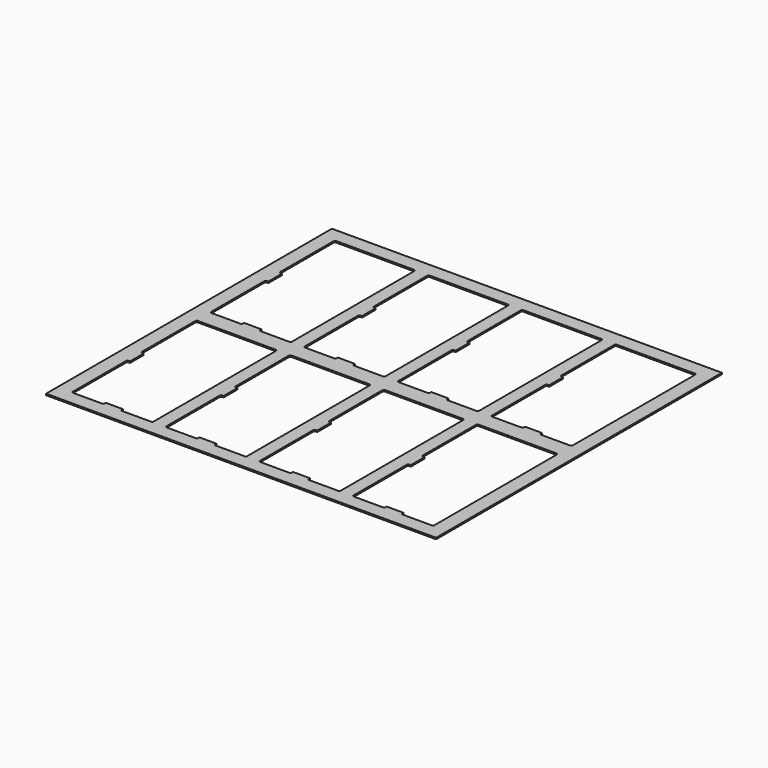
from build123d import *

# Parameters (mm, degrees)
F0_W     = 274.2
F0_H     = 251.2
F1_DEPTH = 1
F3_DEPTH = 1.001
F4_R     = 1


with BuildPart() as f1:
    # F0 (on Top) → F1 (new body)
    with BuildSketch(Plane.XY):
        Rectangle(F0_W, F0_H)
    extrude(amount=F1_DEPTH)

    # F2 (on face) → F3 (cut, through all)
    with BuildSketch(Plane.XY.offset(1)):
        Polygon((-127.1, -66.8), (-127.1, -115.6), (-104.7, -115.6), (-104.7, -113.6), (-92.7, -113.6), (-92.7, -115.6), (-70.3, -115.6), (-70.3, -6), (-127.1, -6), (-127.1, -54.8), (-125.1, -54.8), (-125.1, -66.8), align=None)
        Polygon((-4.5, -6), (-61.3, -6), (-61.3, -54.8), (-59.3, -54.8), (-59.3, -66.8), (-61.3, -66.8), (-61.3, -115.6), (-38.9, -115.6), (-38.9, -113.6), (-26.9, -113.6), (-26.9, -115.6), (-4.5, -115.6), align=None)
        Polygon((61.3, -6), (4.5, -6), (4.5, -54.8), (6.5, -54.8), (6.5, -66.8), (4.5, -66.8), (4.5, -115.6), (26.9, -115.6), (26.9, -113.6), (38.9, -113.6), (38.9, -115.6), (61.3, -115.6), align=None)
        Polygon((127.1, -6), (70.3, -6), (70.3, -54.8), (72.3, -54.8), (72.3, -66.8), (70.3, -66.8), (70.3, -115.6), (92.7, -115.6), (92.7, -113.6), (104.7, -113.6), (104.7, -115.6), (127.1, -115.6), align=None)
        Polygon((127.1, 115.6), (70.3, 115.6), (70.3, 66.8), (72.3, 66.8), (72.3, 54.8), (70.3, 54.8), (70.3, 6), (92.7, 6), (92.7, 8), (104.7, 8), (104.7, 6), (127.1, 6), align=None)
        Polygon((61.3, 115.6), (4.5, 115.6), (4.5, 66.8), (6.5, 66.8), (6.5, 54.8), (4.5, 54.8), (4.5, 6), (26.9, 6), (26.9, 8), (38.9, 8), (38.9, 6), (61.3, 6), align=None)
        Polygon((-4.5, 115.6), (-61.3, 115.6), (-61.3, 66.8), (-59.3, 66.8), (-59.3, 54.8), (-61.3, 54.8), (-61.3, 6), (-38.9, 6), (-38.9, 8), (-26.9, 8), (-26.9, 6), (-4.5, 6), align=None)
        Polygon((-70.3, 115.6), (-127.1, 115.6), (-127.1, 66.8), (-125.1, 66.8), (-125.1, 54.8), (-127.1, 54.8), (-127.1, 6), (-104.7, 6), (-104.7, 8), (-92.7, 8), (-92.7, 6), (-70.3, 6), align=None)
    extrude(amount=-F3_DEPTH, mode=Mode.SUBTRACT)

    # F4
    f4_edges = [f1.edges().sort_by_distance(p)[0] for p in [
        (-127.1, -115.6, 0.5),
        (-104.7, -115.6, 0.5),
        (-92.7, -115.6, 0.5),
        (-70.3, -115.6, 0.5),
        (-70.3, -6, 0.5),
        (-127.1, -6, 0.5),
        (-127.1, -54.8, 0.5),
        (-127.1, -66.8, 0.5),
        (-61.3, -6, 0.5),
        (-4.5, -6, 0.5),
        (-61.3, -54.8, 0.5),
        (-61.3, -66.8, 0.5),
        (-61.3, -115.6, 0.5),
        (-38.9, -115.6, 0.5),
        (-26.9, -115.6, 0.5),
        (-4.5, -115.6, 0.5),
        (4.5, -115.6, 0.5),
        (26.9, -115.6, 0.5),
        (38.9, -115.6, 0.5),
        (61.3, -115.6, 0.5),
        (61.3, -6, 0.5),
        (4.5, -6, 0.5),
        (4.5, -54.8, 0.5),
        (4.5, -66.8, 0.5),
        (70.3, -6, 0.5),
        (70.3, -54.8, 0.5),
        (70.3, -66.8, 0.5),
        (70.3, -115.6, 0.5),
        (92.7, -115.6, 0.5),
        (104.7, -115.6, 0.5),
        (127.1, -115.6, 0.5),
        (127.1, -6, 0.5),
        (-127.1, 6, 0.5),
        (-104.7, 6, 0.5),
        (-92.7, 6, 0.5),
        (-70.3, 6, 0.5),
        (-70.3, 115.6, 0.5),
        (-127.1, 115.6, 0.5),
        (-127.1, 66.8, 0.5),
        (-127.1, 54.8, 0.5),
        (-61.3, 115.6, 0.5),
        (-61.3, 66.8, 0.5),
        (-61.3, 54.8, 0.5),
        (-61.3, 6, 0.5),
        (-38.9, 6, 0.5),
        (-26.9, 6, 0.5),
        (-4.5, 6, 0.5),
        (-4.5, 115.6, 0.5),
        (4.5, 115.6, 0.5),
        (4.5, 66.8, 0.5),
        (4.5, 54.8, 0.5),
        (4.5, 6, 0.5),
        (26.9, 6, 0.5),
        (38.9, 6, 0.5),
        (61.3, 6, 0.5),
        (61.3, 115.6, 0.5),
        (70.3, 115.6, 0.5),
        (70.3, 66.8, 0.5),
        (70.3, 54.8, 0.5),
        (70.3, 6, 0.5),
        (92.7, 6, 0.5),
        (104.7, 6, 0.5),
        (127.1, 6, 0.5),
        (127.1, 115.6, 0.5),
    ]]
    fillet(f4_edges, radius=F4_R)


solid = f1.part
